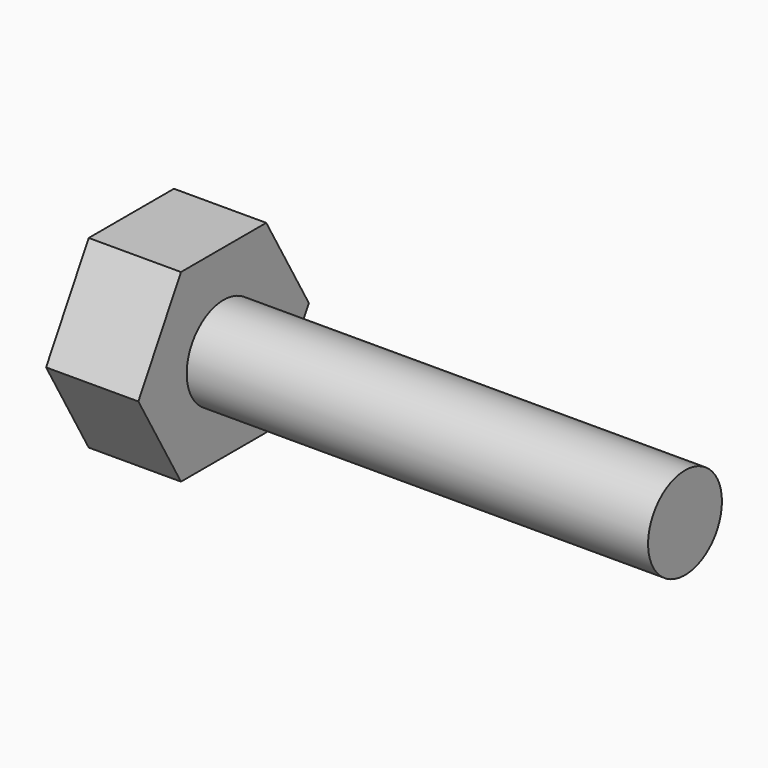
from build123d import *

# Parameters (mm, degrees)
F1_DEPTH = 10
F2_R     = 5
F3_DEPTH = 50


with BuildPart() as f1:
    # F0 (on Right) → F1 (new body)
    with BuildSketch(Plane.YZ):
        Polygon((5.773503, 10), (-5.773503, 10), (-11.547005, 0), (-5.773503, -10), (5.773503, -10), (11.547005, 0), align=None)
    extrude(amount=F1_DEPTH)

    # F2 (on face) → F3 (join)
    with BuildSketch(Plane.YZ.offset(10)):
        Circle(F2_R)
    extrude(amount=F3_DEPTH)


solid = f1.part
